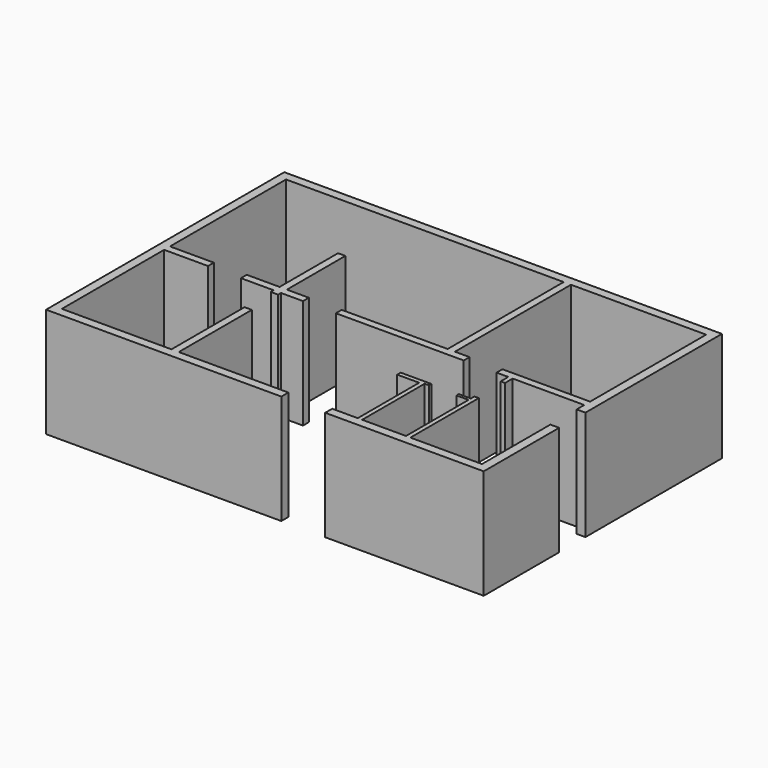
from build123d import *

# Parameters (mm, degrees)
F1_DEPTH = 300


with BuildPart() as f1:
    # F0 (on Top) → F1 (new body)
    with BuildSketch(Plane.XY):
        Polygon((-434, 0), (0, 0), (0, 258), (-24, 258), (-24, 24), (-220, 24), (-232, 24), (-352, 24), (-364, 24), (-434, 24), align=None)
        Polygon((-364, 234), (-364, 24), (-352, 24), (-352, 238), (-340, 238), (-340, 246), (-424, 246), (-424, 234), align=None)
        Polygon((-232, 24), (-220, 24), (-220, 258), (-232, 258), (-232, 246), (-265, 246), (-265, 238), (-232, 238), align=None)
        Polygon((0, 348), (0, 815), (-1198, 815), (-1198, 0), (-554, 0), (-554, 24), (-854, 24), (-854, 274), (-874, 274), (-874, 24), (-1174, 24), (-1174, 374), (-1054, 374), (-1054, 394), (-1174, 394), (-1174, 791), (-414, 791), (-414, 394), (-704, 394), (-704, 374), (-354, 374), (-354, 394), (-394, 394), (-394, 791), (-24, 791), (-24, 394), (-264, 394), (-264, 374), (-232, 374), (-232, 348), (-220, 348), (-220, 374), (-24, 374), (-24, 348), align=None)
        Polygon((-874, 394), (-964, 394), (-964, 374), (-874, 374), (-874, 364), (-854, 364), (-854, 374), (-794, 374), (-794, 394), (-854, 394), (-854, 594), (-874, 594), align=None)
    extrude(amount=F1_DEPTH)


solid = f1.part
